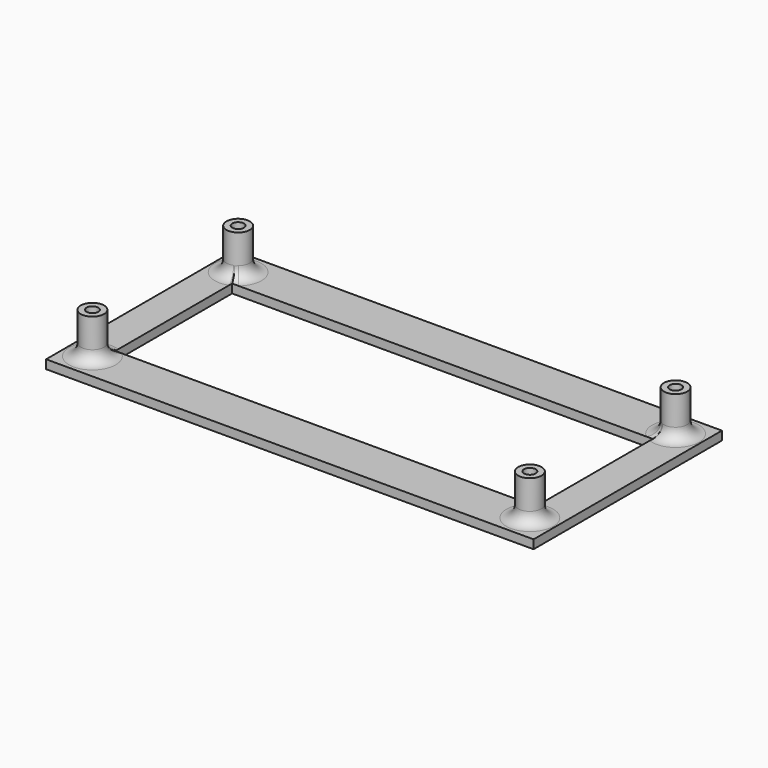
from build123d import *

# Parameters (mm, degrees)
SKETCH_W      = 83.442268
SKETCH_H      = 40.305008
SKETCH_W_2    = 72
SKETCH_H_2    = 25
PAD_DEPTH     = 1.5
SKETCH001_R   = 2
SKETCH001_R_2 = 1
PAD001_DEPTH  = 8.5
FILLET_R      = 2


with BuildPart() as part:
    # Sketch → Pad (new body)
    with BuildSketch(Plane.XY):
        Rectangle(SKETCH_W, SKETCH_H)
        Rectangle(SKETCH_W_2, SKETCH_H_2, mode=Mode.SUBTRACT)
    extrude(amount=PAD_DEPTH)

    # Sketch001 → Pad001 (join)
    with BuildSketch(Plane.XY):
        with Locations((-37.44, 15.59)):
            Circle(SKETCH001_R)
        with Locations((-37.44, 15.59)):
            Circle(SKETCH001_R_2, mode=Mode.SUBTRACT)
        with Locations((-37.44, -15.59)):
            Circle(SKETCH001_R)
        with Locations((-37.44, -15.59)):
            Circle(SKETCH001_R_2, mode=Mode.SUBTRACT)
        with Locations((37.44, -15.59)):
            Circle(SKETCH001_R)
        with Locations((37.44, -15.59)):
            Circle(SKETCH001_R_2, mode=Mode.SUBTRACT)
        with Locations((37.44, 15.59)):
            Circle(SKETCH001_R)
        with Locations((37.44, 15.59)):
            Circle(SKETCH001_R_2, mode=Mode.SUBTRACT)
    extrude(amount=PAD001_DEPTH)

    # Fillet
    fillet_edges = [part.edges().sort_by_distance(p)[0] for p in [
        (-39.44, 15.59, 1.5),
        (35.44, 15.59, 1.5),
        (35.44, -15.59, 1.5),
        (-39.44, -15.59, 1.5),
    ]]
    fillet(fillet_edges, radius=FILLET_R)


solid = part.part
